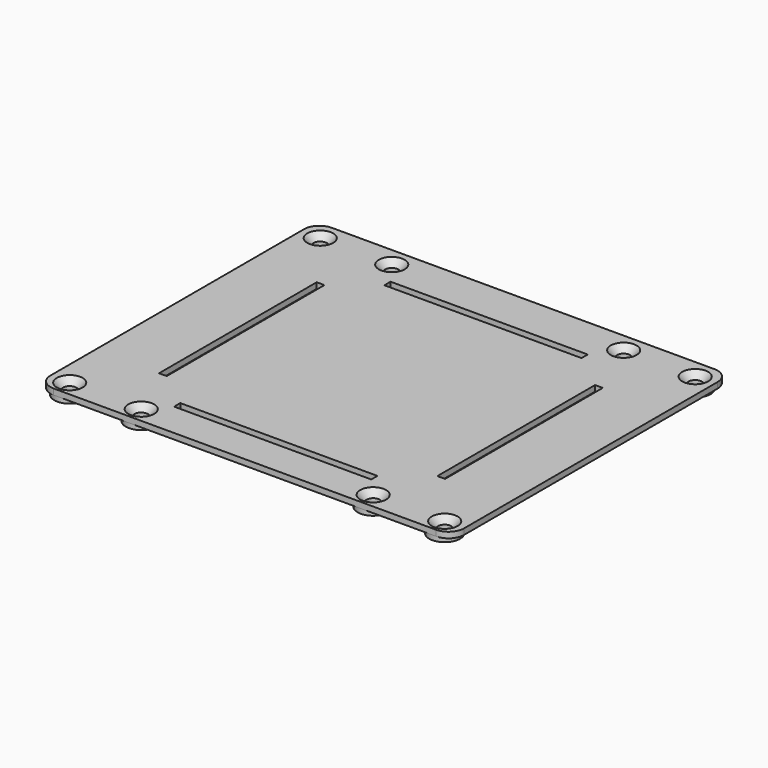
from build123d import *

# Parameters (mm, degrees)
SKETCH030_W             = 51
SKETCH030_H             = 2
SKETCH030_W_2           = 2
SKETCH030_H_2           = 51
PAD018_DEPTH            = 1.5
SKETCH031_R             = 4
SKETCH031_R_2           = 1.6
PAD019_DEPTH            = 2.7
HOLE_D                  = 3.4
HOLE_DEPTH              = 25
HOLE_CSINK_D            = 6.7
HOLE_CSINK_ANGLE        = 90
BODY008_PLACEMENT_ANGLE = 180


with BuildPart() as part:
    # Sketch030 → Pad018 (new body)
    with BuildSketch(Plane.XY):
        with BuildLine():
            Line((-53.5, 40), (-53.5, -42))
            ThreePointArc((-53.5, -42), (-52.328427, -44.828427), (-49.5, -46))
            Line((-49.5, -46), (49.5, -46))
            ThreePointArc((49.5, -46), (52.328427, -44.828427), (53.5, -42))
            Line((53.5, -42), (53.5, 40))
            ThreePointArc((53.5, 40), (52.328427, 42.828427), (49.5, 44))
            Line((49.5, 44), (-49.5, 44))
            ThreePointArc((-49.5, 44), (-52.328427, 42.828427), (-53.5, 40))
        make_face()
        with Locations((0, 34)):
            Rectangle(SKETCH030_W, SKETCH030_H, mode=Mode.SUBTRACT)
        with Locations((0, -34)):
            Rectangle(SKETCH030_W, SKETCH030_H, mode=Mode.SUBTRACT)
        with Locations((36, 0)):
            Rectangle(SKETCH030_W_2, SKETCH030_H_2, mode=Mode.SUBTRACT)
        with Locations((-36, 0)):
            Rectangle(SKETCH030_W_2, SKETCH030_H_2, mode=Mode.SUBTRACT)
    extrude(amount=PAD018_DEPTH)

    # Sketch031 → Pad019 (join)
    with BuildSketch(Plane.XY):
        with Locations((-48.5, 40)):
            Circle(SKETCH031_R)
        with Locations((-48.5, 40)):
            Circle(SKETCH031_R_2, mode=Mode.SUBTRACT)
        with Locations((-30, 40)):
            Circle(SKETCH031_R)
        with Locations((-30, 40)):
            Circle(SKETCH031_R_2, mode=Mode.SUBTRACT)
        with Locations((30, 40)):
            Circle(SKETCH031_R)
        with Locations((30, 40)):
            Circle(SKETCH031_R_2, mode=Mode.SUBTRACT)
        with Locations((30, -41)):
            Circle(SKETCH031_R)
        with Locations((30, -41)):
            Circle(SKETCH031_R_2, mode=Mode.SUBTRACT)
        with Locations((-30, -41)):
            Circle(SKETCH031_R)
        with Locations((-30, -41)):
            Circle(SKETCH031_R_2, mode=Mode.SUBTRACT)
        with Locations((-48.5, -41)):
            Circle(SKETCH031_R)
        with Locations((-48.5, -41)):
            Circle(SKETCH031_R_2, mode=Mode.SUBTRACT)
        with Locations((48.5, -41)):
            Circle(SKETCH031_R)
        with Locations((48.5, -41)):
            Circle(SKETCH031_R_2, mode=Mode.SUBTRACT)
        with Locations((48.5, 40)):
            Circle(SKETCH031_R)
        with Locations((48.5, 40)):
            Circle(SKETCH031_R_2, mode=Mode.SUBTRACT)
    extrude(amount=PAD019_DEPTH)

    # Hole
    with Locations(Plane(origin=(0, 0, 0), x_dir=(1, 0, 0), z_dir=(0, 0, -1))):
        with Locations((-48.5, -40), (-30, -40), (30, -40), (30, 41), (-30, 41), (-48.5, 41), (-48.5, 41), (-30, 41), (30, 41), (30, -40), (-30, -40), (-48.5, -40), (48.5, 41), (48.5, 41), (48.5, -40), (48.5, -40)):
            CounterSinkHole(HOLE_D / 2, HOLE_CSINK_D / 2, depth=HOLE_DEPTH, counter_sink_angle=HOLE_CSINK_ANGLE)


with BuildPart() as part_1:
    # Body008 placement: moved
    add(part.part.moved(Location((0, -1.8, 71.3))).rotate(Axis((0, -1.8, 71.3), (1, 0, 0)), BODY008_PLACEMENT_ANGLE))


solid = part_1.part
